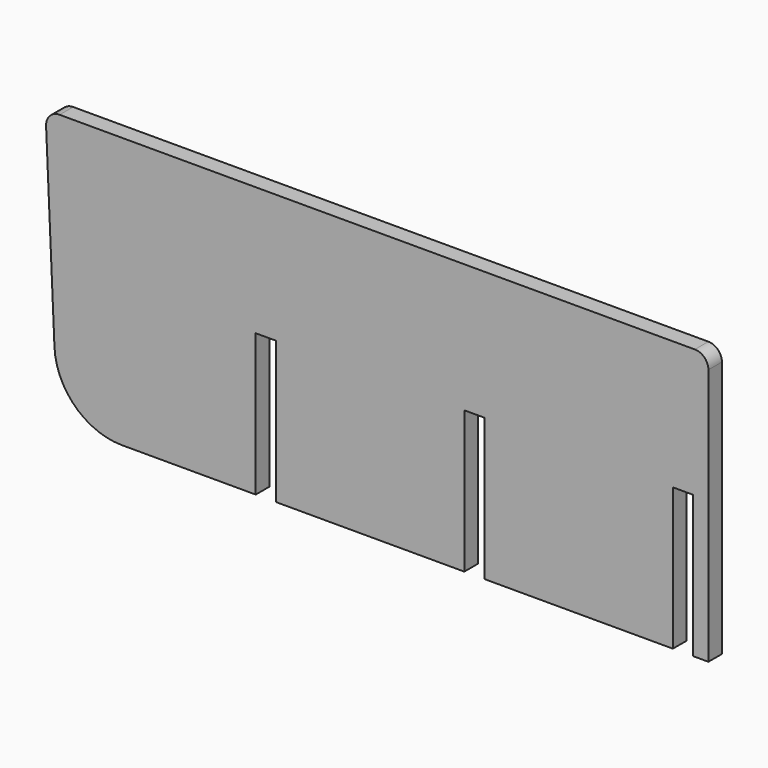
from build123d import *

# Parameters (mm, degrees)
F1_DEPTH = 3.175
F2_R     = 25.4
F3_R     = 5.08


with BuildPart() as f1:
    # F0 (on Front) → F1 (new body, symmetric)
    with BuildSketch(Plane.XZ):
        Polygon((122.2375, 101.6), (-126.673452, 101.6), (-122.2375, 0), (-47.722367, 0), (-47.722367, 53.34), (-40.102367, 53.34), (-40.102367, 0), (30.585833, 0), (30.585833, 53.34), (38.205833, 53.34), (38.205833, 0), (108.9025, 0), (108.9025, 53.34), (116.5225, 53.34), (116.5225, 0), (122.2375, 0), align=None)
    extrude(amount=F1_DEPTH, both=True)

    # F2
    f2_edges = [f1.edges().sort_by_distance(p)[0] for p in [
        (-122.2375, 0, 0),
    ]]
    fillet(f2_edges, radius=F2_R)

    # F3
    f3_edges = [f1.edges().sort_by_distance(p)[0] for p in [
        (-126.673452, 0, 101.6),
        (122.2375, 0, 101.6),
    ]]
    fillet(f3_edges, radius=F3_R)


solid = f1.part
